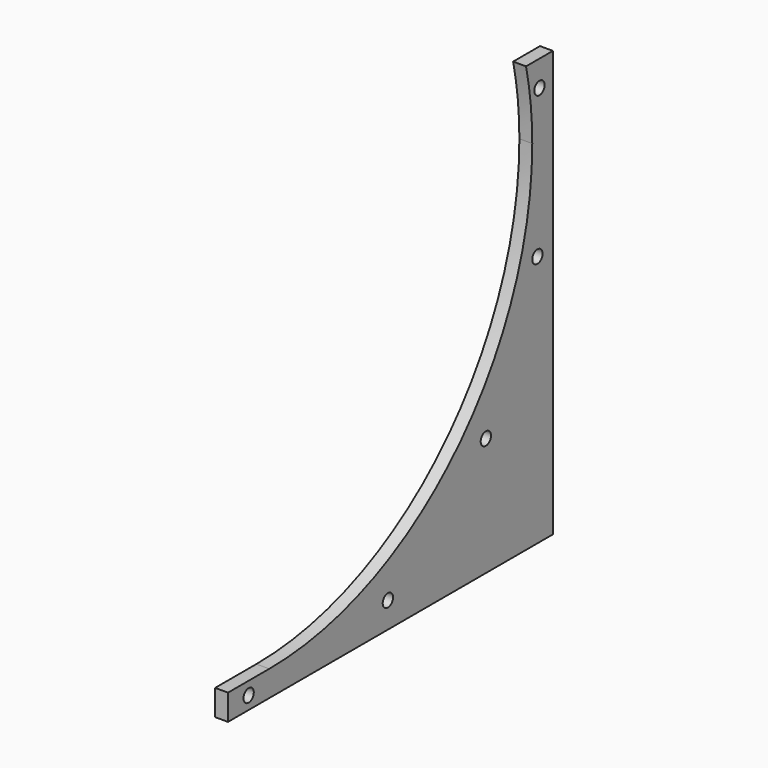
from build123d import *

# Parameters (mm, degrees)
F0_W     = 6.35
F0_H     = 254
F1_DEPTH = 279.4
F3_DEPTH = 25.4
F4_W     = 79.375
F4_H     = 12.7
F5_DEPTH = 25.4
F7_D     = 6.35


with BuildPart() as f1:
    # F0 (on Front) → F1 (new body)
    with BuildSketch(Plane.XZ):
        Rectangle(F0_W, F0_H)
    extrude(amount=F1_DEPTH)

    # F2 (on face) → F3 (cut)
    with BuildSketch(Plane(origin=(-3.175, 0, 0), x_dir=(0, -1, 0), z_dir=(-1, 0, 0))):
        with BuildLine():
            Line((0, 82.671984), (16.538269, 82.671984))
            Line((16.538269, 82.671984), (174.625, 47.625))
            Line((174.625, 47.625), (12.7, 47.625))
            ThreePointArc((12.7, 47.625), (60.126734, -66.873266), (174.625, -114.3))
            Line((174.625, -114.3), (279.4, -114.3))
            Line((279.4, -114.3), (279.4, 127))
            Line((279.4, 127), (0, 127))
            Line((0, 127), (0, 82.671984))
        make_face()
        with BuildLine():
            Line((174.625, 47.625), (16.538269, 82.671984))
            ThreePointArc((16.538269, 82.671984), (13.662427, 65.253269), (12.7, 47.625))
            Line((12.7, 47.625), (174.625, 47.625))
        make_face()
    extrude(amount=-F3_DEPTH, mode=Mode.SUBTRACT)

    # F4 (on face) → F5 (cut)
    with BuildSketch(Plane(origin=(-3.175, 0, 0), x_dir=(0, -1, 0), z_dir=(-1, 0, 0))):
        with Locations((239.7125, -120.65)):
            Rectangle(F4_W, F4_H)
    extrude(amount=-F5_DEPTH, mode=Mode.SUBTRACT)

    # F7 (through all)
    with Locations(Plane.YZ.offset(3.175)):
        with Locations((-187.325, -120.65), (-101.6, -114.3), (-41.275, -68.652838), (-9.525, -2.670206), (-8.269135, 69.937184)):
            Hole(F7_D / 2)


solid = f1.part
